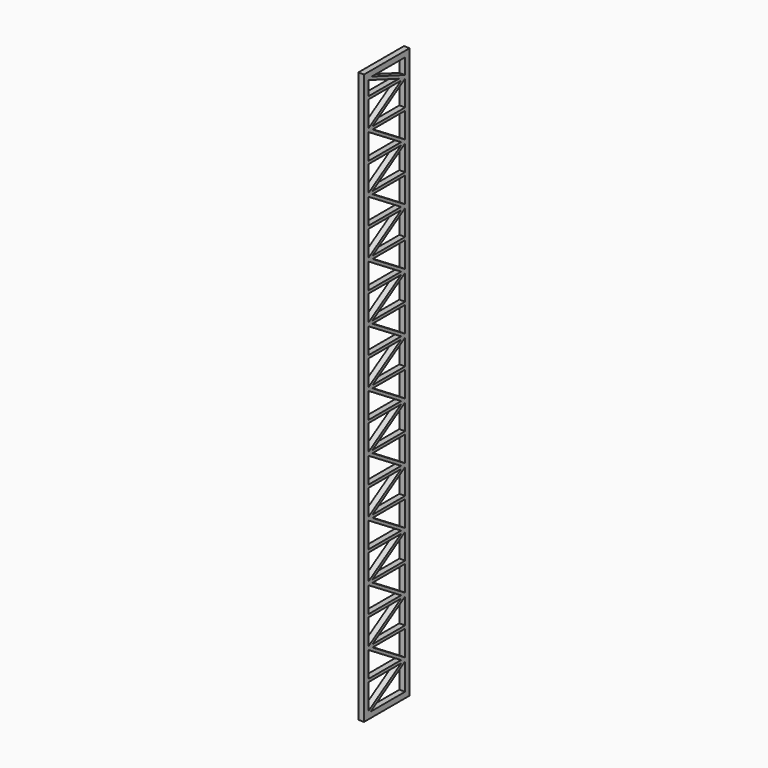
from build123d import *

# Parameters (mm, degrees)
F0_W     = 200
F0_H     = 200
F1_DEPTH = 200


with BuildPart() as f1:
    # F0 (on Right) → F1 (new body)
    with BuildSketch(Plane.YZ):
        Polygon((-800, 0), (0, 0), (800, 0), (800, 200), (1000, 200), (1000, 20000), (-803.0831932057, 20000), (-1000, 20000), (-1000, 19800), (-1000, 0), align=None)
        Polygon((-802.9475212097, 1150), (625.3878056769, 1150), (-802.9475212097, 258.9319469369), align=None, mode=Mode.SUBTRACT)
        Polygon((-803.0831932057, 2141.0684212425), (625.252133681, 1250.0003681794), (-803.0831932057, 1250.0003681794), align=None, mode=Mode.SUBTRACT)
        Polygon((625.252133681, 3150.0003681793), (-803.0831932057, 2258.9323151163), (-803.0831932057, 3150.0003681795), align=None, mode=Mode.SUBTRACT)
        Polygon((-803.0831932057, 4141.0684212424), (625.2521336808, 3250.0003681795), (-803.0831932057, 3250.0003681793), align=None, mode=Mode.SUBTRACT)
        Polygon((625.2521336809, 5150.0003681793), (-803.0831932057, 4258.9323151163), (-803.0831932057, 5150.0003681793), align=None, mode=Mode.SUBTRACT)
        Polygon((625.252133681, 5250.0003681794), (-803.0831932057, 5250.0003681794), (-803.0831932057, 6141.0684212425), align=None, mode=Mode.SUBTRACT)
        Polygon((-803.0831932057, 7150.0003681793), (625.252133681, 7150.0003681794), (-803.0831932057, 6258.9323151163), align=None, mode=Mode.SUBTRACT)
        Polygon((-803.0831932057, 8141.0684212425), (625.252133681, 7250.0003681793), (-803.0831932057, 7250.0003681792), align=None, mode=Mode.SUBTRACT)
        Polygon((625.252133705, 9150.0003681404), (-803.0831932057, 8258.9323151163), (-803.0831932057, 9150.0003681414), align=None, mode=Mode.SUBTRACT)
        Polygon((-803.0831932057, 10145.4306546926), (626.0292053024, 9249.9999999981), (-803.0831932057, 9250.0000000154), align=None, mode=Mode.SUBTRACT)
        Polygon((800, 1141.0680530631), (800, 200), (-708.4827029471, 200), align=None, mode=Mode.SUBTRACT)
        Polygon((800, 2150), (800, 1258.9319469369), (-628.3353268867, 2150), align=None, mode=Mode.SUBTRACT)
        Polygon((800, 3141.0680530631), (800, 2250.0000000003), (-628.3353268868, 2250.0000000002), align=None, mode=Mode.SUBTRACT)
        Polygon((800, 4150), (800, 3258.9319469369), (-628.3353268867, 4150), align=None, mode=Mode.SUBTRACT)
        Polygon((800, 5141.0680530631), (800, 4250), (-628.3353268867, 4250), align=None, mode=Mode.SUBTRACT)
        Polygon((800, 6150), (800, 5258.9319469369), (-628.3353268867, 6150), align=None, mode=Mode.SUBTRACT)
        Polygon((800, 7141.0680530631), (800, 6250.0000000007), (-628.3353268871, 6250.0000000007), align=None, mode=Mode.SUBTRACT)
        Polygon((800, 8150), (800, 7258.9319469369), (-628.3353268867, 8150), align=None, mode=Mode.SUBTRACT)
        Polygon((800, 9141.0680530631), (800, 8250.0000000003), (-628.3353268868, 8250.0000000003), align=None, mode=Mode.SUBTRACT)
        with BuildLine():
            Line((800, 10149.9999999992), (800, 9259.0038703129))
            Line((800, 9259.0038703129), (-628.2197423898, 10153.8752186742))
            Line((-628.2197423898, 10153.8752186742), (799.8643280035, 10150.0001840684))
            ThreePointArc((799.8643280035, 10150.0001840684), (799.9321639393, 10150.0000460165), (800, 10149.9999999992))
        make_face(mode=Mode.SUBTRACT)
        Polygon((705.5469825314, 9200.0923691318), (705.6938166383, 9200.0003681383), (705.399509767, 9200.0003681383), align=None, mode=Mode.SUBTRACT)
        Polygon((-708.3674135023, 10204.0928794358), (-708.5976319881, 10204.0935041221), (-708.4825227452, 10204.1650027655), align=None, mode=Mode.SUBTRACT)
        with BuildLine():
            ThreePointArc((-803.0831932057, 11150.0001840603), (-803.0153572699, 11150.0000460084), (-802.9475212092, 11149.999999991))
            Line((-802.9475212092, 11149.999999991), (624.7404401391, 11149.9999999987))
            Line((624.7404401391, 11149.9999999987), (-803.0831932057, 10263.1254952541))
            Line((-803.0831932057, 10263.1254952541), (-803.0831932057, 11150.0001840603))
        make_face(mode=Mode.SUBTRACT)
        with BuildLine():
            ThreePointArc((-802.9475212092, 11250.0000000073), (-803.0153572699, 11249.99995399), (-803.0831932057, 11249.9998159381))
            Line((-803.0831932057, 11249.9998159381), (-803.0831932057, 12141.1526921379))
            Line((-803.0831932057, 12141.1526921379), (625.3878056754, 11250.0000000005))
            Line((625.3878056754, 11250.0000000005), (-802.9475212092, 11250.0000000073))
        make_face(mode=Mode.SUBTRACT)
        with BuildLine():
            ThreePointArc((-803.0831932057, 13150.0001840684), (-803.0153572699, 13150.0000460165), (-802.9475212092, 13149.9999999992))
            Line((-802.9475212092, 13149.9999999992), (625.3878056775, 13149.9999999992))
            Line((625.3878056775, 13149.9999999992), (-803.0831932057, 12258.8473078604))
            Line((-803.0831932057, 12258.8473078604), (-803.0831932057, 13150.0001840684))
        make_face(mode=Mode.SUBTRACT)
        with BuildLine():
            ThreePointArc((-802.9475212092, 13249.9999999992), (-803.0153572699, 13249.9999539818), (-803.0831932057, 13249.9998159299))
            Line((-803.0831932057, 13249.9998159299), (-803.0831932057, 14141.1526921379))
            Line((-803.0831932057, 14141.1526921379), (625.3878056779, 13249.9999999998))
            Line((625.3878056779, 13249.9999999998), (-802.9475212092, 13249.9999999992))
        make_face(mode=Mode.SUBTRACT)
        with BuildLine():
            ThreePointArc((-803.0831932057, 15150.0001840692), (-803.0153572701, 15150.0000460173), (-802.9475212097, 15150))
            Line((-802.9475212097, 15150), (625.387805677, 15150))
            Line((625.387805677, 15150), (-803.0831932057, 14258.8473078604))
            Line((-803.0831932057, 14258.8473078604), (-803.0831932057, 15150.0001840692))
        make_face(mode=Mode.SUBTRACT)
        with BuildLine():
            ThreePointArc((-802.9475212097, 15250), (-803.0153572701, 15249.9999539827), (-803.0831932057, 15249.9998159308))
            Line((-803.0831932057, 15249.9998159308), (-803.0831932057, 16141.1526921384))
            Line((-803.0831932057, 16141.1526921384), (625.3878056772, 15250.0000000005))
            Line((625.3878056771, 15250.0000000005), (-802.9475212097, 15250))
        make_face(mode=Mode.SUBTRACT)
        with BuildLine():
            ThreePointArc((-803.0831932057, 17150.0001840692), (-803.0153572701, 17150.0000460173), (-802.9475212097, 17150))
            Line((-802.9475212097, 17150), (625.3878056769, 17150))
            Line((625.3878056769, 17150), (-803.0831932057, 16258.8473078616))
            Line((-803.0831932057, 16258.8473078616), (-803.0831932057, 17150.0001840692))
        make_face(mode=Mode.SUBTRACT)
        with BuildLine():
            ThreePointArc((-802.9475212097, 17250), (-803.0153572701, 17249.9999539827), (-803.0831932057, 17249.9998159308))
            Line((-803.0831932057, 17249.9998159308), (-803.0831932057, 18141.1526921384))
            Line((-803.0831932057, 18141.1526921384), (625.387805677, 17250))
            Line((625.3878056769, 17250), (-802.9475212097, 17250))
        make_face(mode=Mode.SUBTRACT)
        with BuildLine():
            ThreePointArc((-803.0831932057, 19150.0001840692), (-803.0153572702, 19150.0000460173), (-802.9475212098, 19150))
            Line((-802.9475212098, 19150), (625.3878056769, 19150))
            Line((625.3878056769, 19150), (-803.0831932057, 18258.8473078617))
            Line((-803.0831932057, 18258.8473078617), (-803.0831932057, 19150.0001840692))
        make_face(mode=Mode.SUBTRACT)
        with BuildLine():
            ThreePointArc((-802.9475212098, 19250), (-803.0153572702, 19249.9999539827), (-803.0831932057, 19249.9998159308))
            Line((-803.0831932057, 19249.9998159308), (-803.0831932057, 19746.6628562227))
            Line((-803.0831932057, 19746.6628562227), (523.7909638927, 19250))
            Line((523.7909638927, 19250), (-802.9475212098, 19250))
        make_face(mode=Mode.SUBTRACT)
        Polygon((800, 11141.1397516309), (800, 10250.0001840699), (-628.4499608737, 10253.8762115003), align=None, mode=Mode.SUBTRACT)
        Polygon((800, 12149.9999999992), (800, 11258.9319469369), (-628.3353268861, 12149.9999999992), align=None, mode=Mode.SUBTRACT)
        Polygon((800, 13141.0680530631), (800, 12249.9999999992), (-628.3353268861, 12249.9999999992), align=None, mode=Mode.SUBTRACT)
        Polygon((800, 14149.9999999991), (800, 13258.9319469367), (-628.3353268861, 14149.9999999992), align=None, mode=Mode.SUBTRACT)
        Polygon((800, 15141.0680530631), (800, 14249.9999999973), (-628.3353268861, 14249.999999999), align=None, mode=Mode.SUBTRACT)
        Polygon((705.3868855449, 11200.0925146892), (705.535181738, 11199.9999999992), (705.2379415172, 11199.9999999992), align=None, mode=Mode.SUBTRACT)
        Polygon((800, 16150), (800, 15258.9319469367), (-628.3353268867, 16150), align=None, mode=Mode.SUBTRACT)
        Polygon((800, 17141.0680530631), (800, 16250), (-628.3353268867, 16250), align=None, mode=Mode.SUBTRACT)
        Polygon((800, 18150), (800, 17258.9319469369), (-628.3353268866, 18150), align=None, mode=Mode.SUBTRACT)
        Polygon((800, 19141.0680530631), (800, 18249.9999999992), (-628.3353268867, 18250), align=None, mode=Mode.SUBTRACT)
        Polygon((800, 19800), (800, 19253.3879272225), (-660.3174452032, 19800), align=None, mode=Mode.SUBTRACT)
        with Locations((900, 100)):
            Rectangle(F0_W, F0_H)
        Polygon((705.2379415172, 11199.9999999992), (705.535181738, 11199.9999999992), (705.3868855449, 11200.0925146892), align=None)
        Polygon((705.399509767, 9200.0003681383), (705.6938166383, 9200.0003681383), (705.5469825314, 9200.0923691318), align=None)
        Polygon((-708.4825227452, 10204.1650027655), (-708.5976319881, 10204.0935041221), (-708.3674135023, 10204.0928794358), align=None)
    extrude(amount=F1_DEPTH)


solid = f1.part
